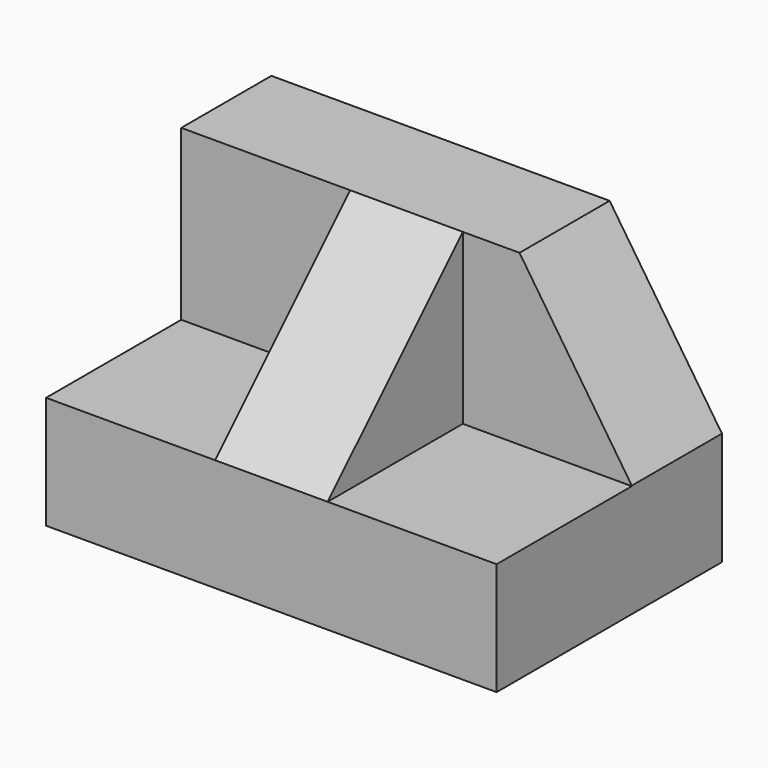
from build123d import *

# Parameters (mm, degrees)
F1_DEPTH = 50.8
F3_DEPTH = 31.75
F4_W     = 12.7
F4_H     = 19.05
F5_DEPTH = 31.75
F7_DEPTH = 25.4


with BuildPart() as f1:
    # F0 (on Right) → F1 (new body)
    with BuildSketch(Plane.YZ):
        Polygon((0, 12.7), (0, 0), (31.75, 0), (31.75, 31.75), (19.05, 31.75), (19.05, 12.7), align=None)
    extrude(amount=F1_DEPTH)

    # F2 (on Front) → F3 (cut)
    with BuildSketch(Plane.XZ):
        Polygon((50.8, 12.760184), (50.8, 31.810184), (38.1, 31.810184), align=None)
    extrude(amount=-F3_DEPTH, mode=Mode.SUBTRACT)

    # F4 (on Top) → F5 (join)
    with BuildSketch(Plane.XY):
        with Locations((25.4, 9.525)):
            Rectangle(F4_W, F4_H)
    extrude(amount=F5_DEPTH)

    # F6 (on face) → F7 (cut)
    with BuildSketch(Plane.YZ.offset(31.75)):
        Polygon((0, 12.7), (19.05, 31.75), (0, 31.75), align=None)
    extrude(amount=-F7_DEPTH, mode=Mode.SUBTRACT)


solid = f1.part
